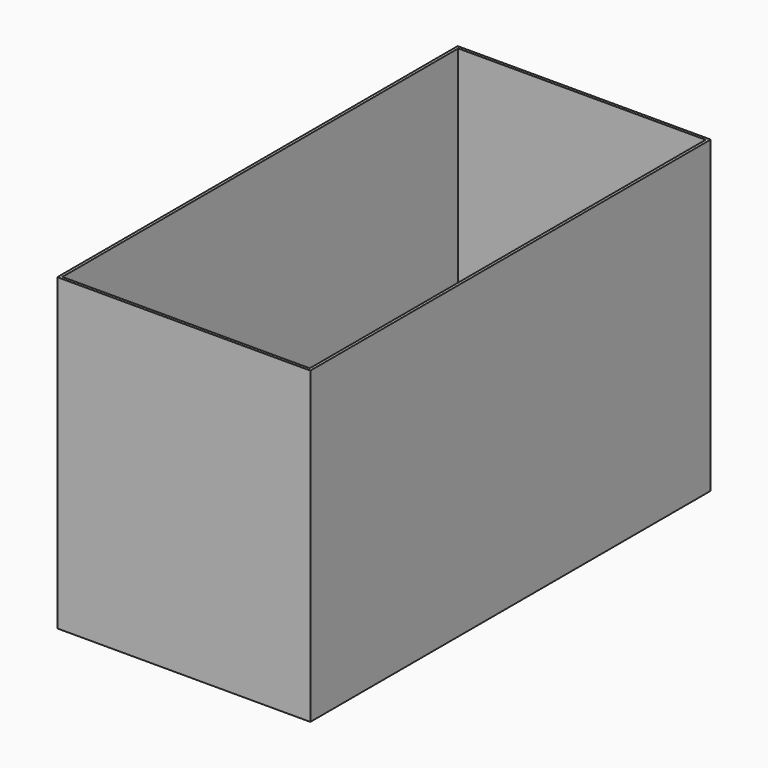
from build123d import *

# Parameters (mm, degrees)
F0_W     = 142.875
F0_H     = 282.575
F1_DEPTH = 174.625
F2_T     = -1.5875
F3_W     = 133.35
F3_H     = 273.05
F4_DEPTH = 6.35


with BuildPart() as f1:
    # F0 (on Top) → F1 (new body)
    with BuildSketch(Plane.XY):
        Rectangle(F0_W, F0_H)
    extrude(amount=F1_DEPTH)

    # F2
    f2_openings = [f1.faces().sort_by_distance(p)[0] for p in [
        (0, 0, 174.625),
    ]]
    offset(amount=F2_T, openings=f2_openings)

    # F3 (on face) → F4 (join)
    with BuildSketch(Plane.XY.offset(1.5875)):
        Rectangle(F3_W, F3_H)
    extrude(amount=F4_DEPTH)


solid = f1.part
